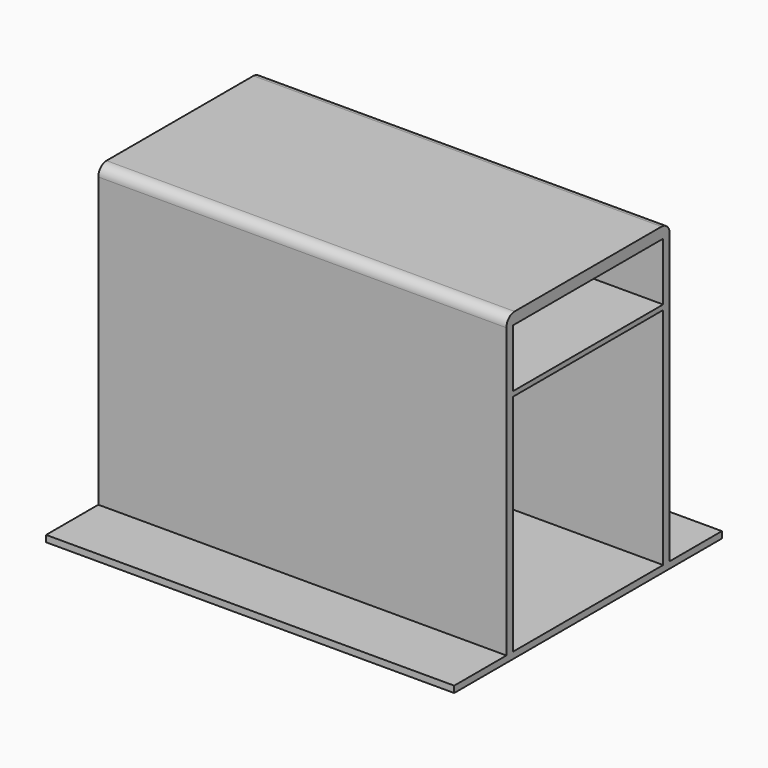
from build123d import *

# Parameters (mm, degrees)
F1_DEPTH = 100
F3_R     = 2.5


with BuildPart() as f1:
    # F0 (on Right) → F1 (new body)
    with BuildSketch(Plane.YZ):
        Polygon((-41, 0), (0, 0), (0, 1.6), (-23, 1.6), (-23, 56.6), (0, 56.6), (0, 57.8), (-23, 57.8), (-23, 72), (0, 72), (0, 74.8), (-25, 74.8), (-25, 1.6), (-41, 1.6), align=None)
    extrude(amount=F1_DEPTH)

    # F2: F1 across plane


with BuildPart() as f1_1:
    add(f1.part)
    add(f1.part.mirror(Plane.XZ))

    # F3
    f3_edges = [f1_1.edges().sort_by_distance(p)[0] for p in [
        (50, -25, 74.8),
        (50, 25, 74.8),
    ]]
    fillet(f3_edges, radius=F3_R)


solid = f1_1.part
